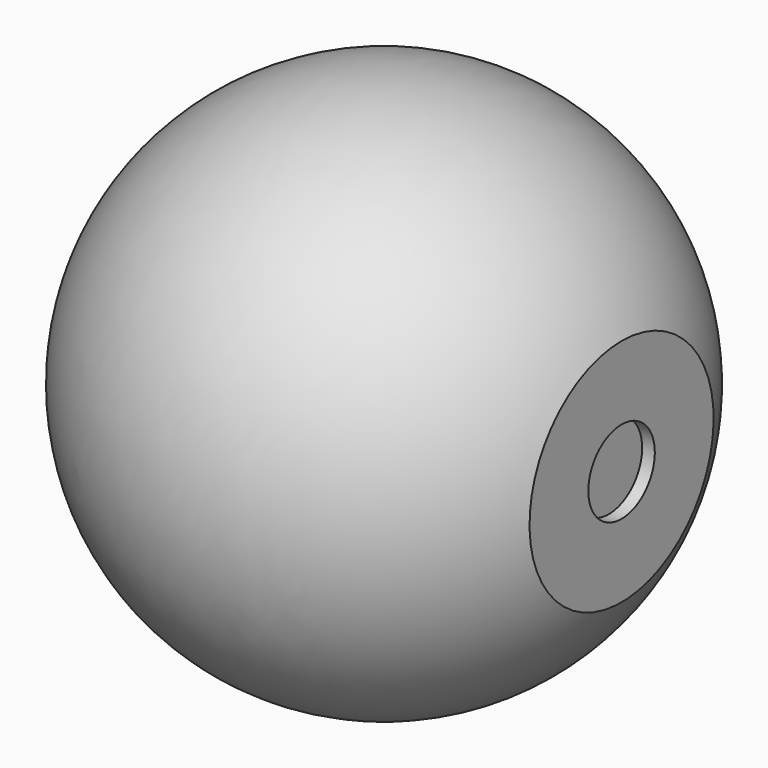
from build123d import *


with BuildPart() as f1:
    # F0 (on Front) → F1 (revolve)
    with BuildSketch(Plane.XZ):
        with BuildLine():
            Line((23.5204, 1.999996), (24.13, 1.999996))
            Line((24.13, 1.999996), (24.13, 5.535802))
            ThreePointArc((24.13, 5.535802), (11.571655, 12.649776), (0.47067, 3.425417))
            Line((0.47067, 3.425417), (6.82067, 3.425417))
            Line((6.82067, 3.425417), (6.82067, 1.52908))
            Line((6.82067, 1.52908), (6.82067, 0))
            Line((6.82067, 0), (7.20167, 0))
            Line((7.20167, 0), (7.20167, 3.806417))
            Line((7.20167, 3.806417), (0.983817, 3.806417))
            ThreePointArc((0.983817, 3.806417), (11.81415, 12.287108), (23.749, 5.447693))
            Line((23.749, 5.447693), (23.749, 2.380996))
            Line((23.749, 2.380996), (23.1394, 2.380996))
            Line((23.1394, 2.380996), (23.1394, 0))
            Line((23.1394, 0), (23.5204, 0))
            Line((23.5204, 0), (23.5204, 1.999996))
        make_face()
    revolve(axis=Axis((12.165614, 0, 0), (1, 0, 0)))


solid = f1.part
